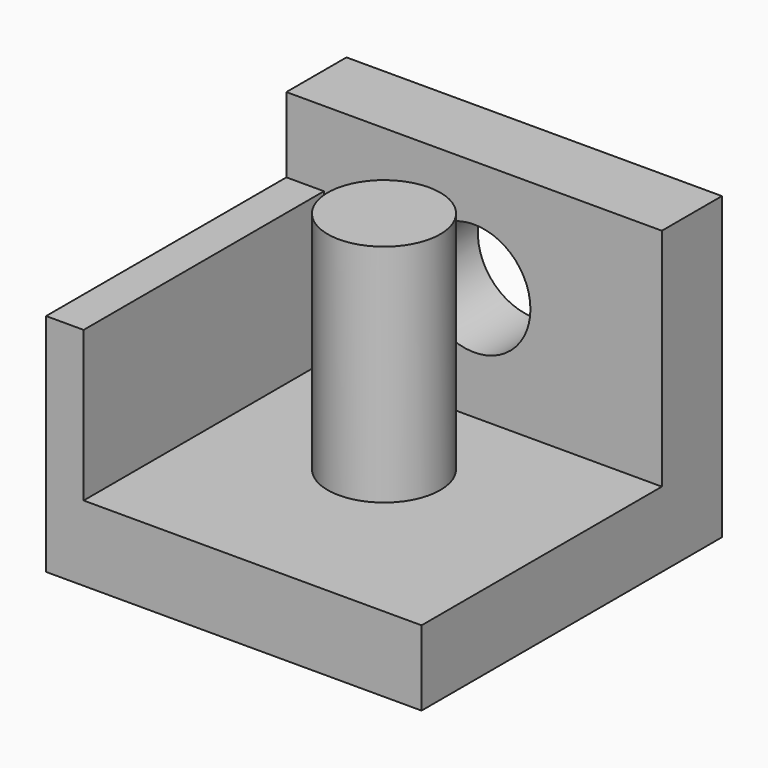
from build123d import *

# Parameters (mm, degrees)
F0_W     = 10
F0_H     = 10
F1_DEPTH = 2
F2_W     = 10
F2_H     = 2
F3_DEPTH = 6
F4_R     = 1.5
F5_DEPTH = 25
F6_R     = 1.5
F7_DEPTH = 6
F8_W     = 1
F8_H     = 8
F9_DEPTH = 4


with BuildPart() as f1:
    # F0 (on Top) → F1 (new body)
    with BuildSketch(Plane.XY):
        Rectangle(F0_W, F0_H)
    extrude(amount=F1_DEPTH)

    # F2 (on face) → F3 (join)
    with BuildSketch(Plane.XY.offset(2)):
        with Locations((0, 4)):
            Rectangle(F2_W, F2_H)
    extrude(amount=F3_DEPTH)

    # F4 (on face) → F5 (cut)
    with BuildSketch(Plane.XZ.offset(-3)):
        with Locations((0, 5.022311)):
            Circle(F4_R)
    extrude(amount=-F5_DEPTH, mode=Mode.SUBTRACT)

    # F6 (on face) → F7 (join)
    with BuildSketch(Plane.XY.offset(2)):
        Circle(F6_R)
    extrude(amount=F7_DEPTH)

    # F8 (on face) → F9 (join)
    with BuildSketch(Plane.XY.offset(2)):
        with Locations((-4.5, -1)):
            Rectangle(F8_W, F8_H)
    extrude(amount=F9_DEPTH)


solid = f1.part
